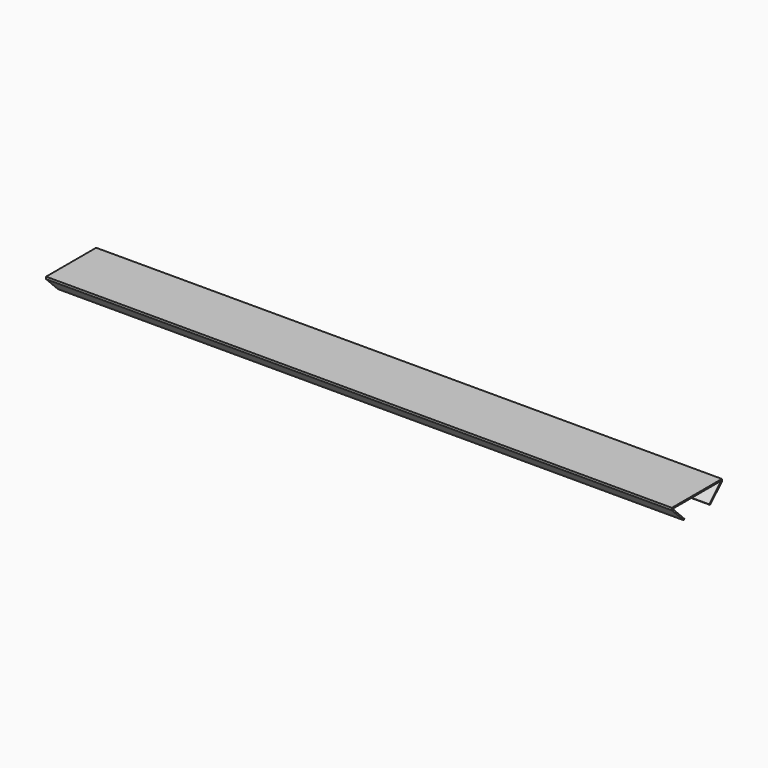
from build123d import *

# Parameters (mm, degrees)
F1_DEPTH = 1524


with BuildPart() as f1:
    # F0 (on Right) → F1 (new body)
    with BuildSketch(Plane.YZ):
        Polygon((76.2, -3.832564), (76.2, -1.5875), (73.954936, -1.5875), align=None)
        Polygon((73.954936, -1.5875), (76.2, -1.5875), (76.2, 1.5875), (-76.2, 1.5875), (-76.2, -1.5875), (-73.954936, -1.5875), align=None)
        Polygon((76.2, -3.832564), (73.954936, -1.5875), (38.033911, -37.508524), (40.278976, -39.753589), align=None)
        Polygon((-76.2, -3.832564), (-73.954936, -1.5875), (-76.2, -1.5875), align=None)
        Polygon((-38.033911, -37.508524), (-73.954936, -1.5875), (-76.2, -3.832564), (-40.278976, -39.753589), align=None)
    extrude(amount=-F1_DEPTH)


solid = f1.part
